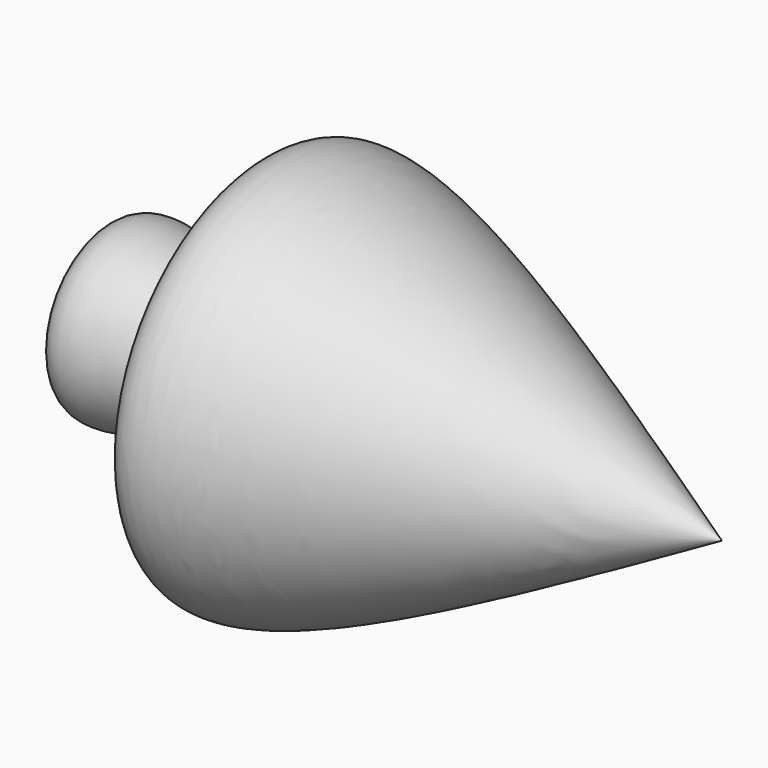
from build123d import *


with BuildPart() as f1:
    # F0 (on Front) → F1 (revolve)
    with BuildSketch(Plane.XZ):
        with BuildLine():
            Line((70.7198679447, 0), (-65.0268495083, 0))
            add(Edge.make_bspline(
                [(-65.0268495083, 0), (-66.9876999541, -8.6558717213), (-71.4293652866, -28.2629177508), (-21.5236215639, -4.9844721515), (-47.7130471672, -65.500367274), (22.6627506021, -26.5784291568), (70.7198679447, 0)],
                knots=[0, 0, 0, 0, 0.1730944201, 0.3920888016, 0.5848791286, 1, 1, 1, 1], degree=3))
        make_face()
    revolve(axis=Axis((2.8465092182, 0, 0), (1, 0, 0)))


solid = f1.part
